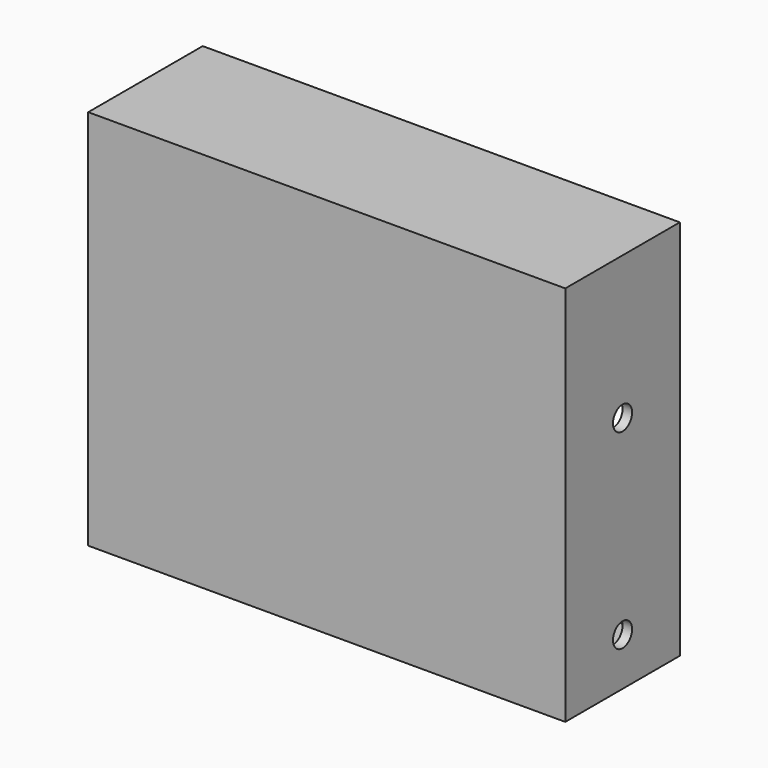
from build123d import *

# Parameters (mm, degrees)
F0_W     = 127
F0_H     = 101.6
F1_DEPTH = 19.05
F2_T     = -2.54
F3_R     = 3.175
F4_DEPTH = 2.54
F5_R     = 4.7625
F6_DEPTH = 2.54


with BuildPart() as f1:
    # F0 (on Front) → F1 (new body, symmetric)
    with BuildSketch(Plane.XZ):
        Rectangle(F0_W, F0_H)
    extrude(amount=F1_DEPTH, both=True)

    # F2
    f2_openings = [f1.faces().sort_by_distance(p)[0] for p in [
        (0, 19.05, 0),
    ]]
    offset(amount=F2_T, openings=f2_openings)

    # F3 (on face) → F4 (cut, through all)
    with BuildSketch(Plane.YZ.offset(63.5)):
        with Locations((0, -38.1)):
            Circle(F3_R)
        with Locations((0, 12.7)):
            Circle(F3_R)
    extrude(amount=-F4_DEPTH, mode=Mode.SUBTRACT)

    # F5 (on face) → F6 (cut, through all)
    with BuildSketch(Plane(origin=(-63.5, 0, 0), x_dir=(0, -1, 0), z_dir=(-1, 0, 0))):
        with Locations((0, 38.1)):
            Circle(F5_R)
        Circle(F5_R)
    extrude(amount=-F6_DEPTH, mode=Mode.SUBTRACT)


solid = f1.part
